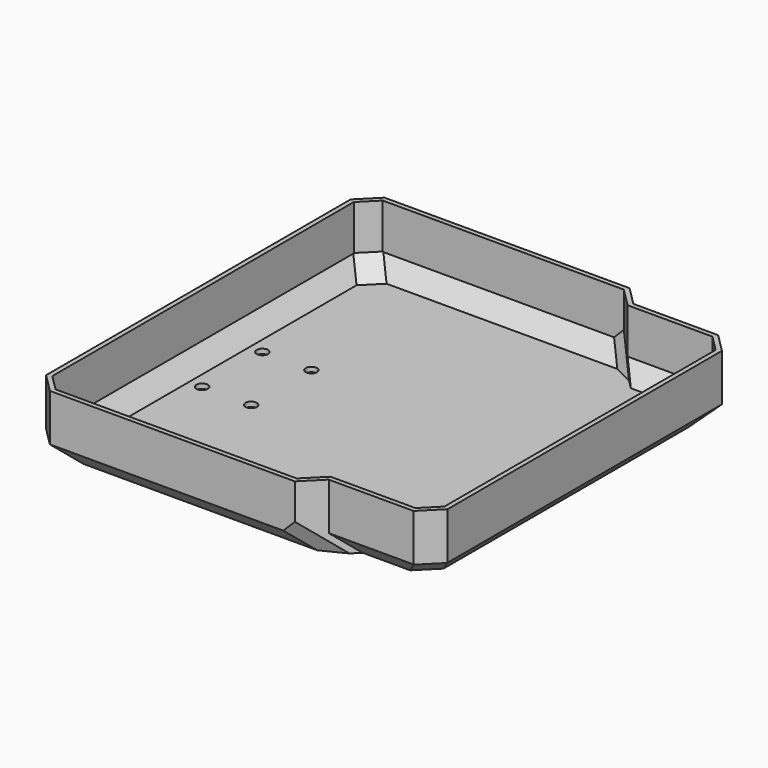
from build123d import *

# Parameters (mm, degrees)
F1_DEPTH  = 222
F2_SIZE   = 10
F3_SIZE   = 10
F4_SIZE   = 8
F6_W      = 202
F6_H      = 35
F7_DEPTH  = 55
F8_SIZE   = 10
F9_SIZE   = 10
F10_SIZE  = 5
F11_SIZE  = 8
F12_T     = -2.5
F5_R      = 3
F13_DEPTH = 35.001


with BuildPart() as f1:
    # F0 (on Front) → F1 (new body)
    with BuildSketch(Plane.XZ):
        Polygon((0, 0), (10, 0), (140, 0), (150, 0), (150, 10), (150, 35), (0, 35), (0, 10), align=None)
    extrude(amount=F1_DEPTH)

    # F2
    f2_edges = [f1.edges().sort_by_distance(p)[0] for p in [
        (0, -222, 17.5),
        (150, -222, 17.5),
        (150, 0, 17.5),
        (0, 0, 17.5),
    ]]
    chamfer(f2_edges, length=F2_SIZE)

    # F3 (call 1 of 3: OpenCascade refuses the feature's edges together)
    f3_edges = [f1.edges().sort_by_distance(p)[0] for p in [
        (75, -222, 0),
    ]]
    chamfer(f3_edges, length=F3_SIZE)

    # F3#2 (call 2 of 3)
    f3_2_edges = [f1.edges().sort_by_distance(p)[0] for p in [
        (75, 0, 0),
    ]]
    chamfer(f3_2_edges, length=F3_SIZE)

    # F3#3 (call 3 of 3)
    f3_3_edges = [f1.edges().sort_by_distance(p)[0] for p in [
        (0, -111, 0),
    ]]
    chamfer(f3_3_edges, length=F3_SIZE)

    # F4
    f4_edges = [f1.edges().sort_by_distance(p)[0] for p in [
        (7.5, -214.5, 2.5),
        (7.5, -7.5, 2.5),
    ]]
    chamfer(f4_edges, length=F4_SIZE)

    # F6 (on face) → F7 (join)
    with BuildSketch(Plane.YZ.offset(150)):
        with Locations((-111, 17.5)):
            Rectangle(F6_W, F6_H)
    extrude(amount=F7_DEPTH)

    # F8
    f8_edges = [f1.edges().sort_by_distance(p)[0] for p in [
        (205, -111, 0),
        (177.5, -212, 0),
        (177.5, -10, 0),
    ]]
    chamfer(f8_edges, length=F8_SIZE)

    # F9
    f9_edges = [f1.edges().sort_by_distance(p)[0] for p in [
        (205, -212, 22.5),
        (205, -10, 22.5),
    ]]
    chamfer(f9_edges, length=F9_SIZE)

    # F10
    f10_edges = [f1.edges().sort_by_distance(p)[0] for p in [
        (145, -217, 5),
        (145, -5, 5),
    ]]
    chamfer(f10_edges, length=F10_SIZE)

    # F11
    f11_edges = [f1.edges().sort_by_distance(p)[0] for p in [
        (197.5, -17.5, 2.5),
        (197.5, -204.5, 2.5),
    ]]
    chamfer(f11_edges, length=F11_SIZE)

    # F12
    f12_openings = [f1.faces().sort_by_distance(p)[0] for p in [
        (100.529547, -111, 35),
    ]]
    offset(amount=F12_T, openings=f12_openings, kind=Kind.INTERSECTION)

    # F5 (on face) → F13 (cut, through all)
    with BuildSketch(Plane(origin=(0, 0, 0), x_dir=(1, 0, 0), z_dir=(0, 0, -1))):
        with Locations((18, 131)):
            Circle(F5_R)
        with Locations((44, 131)):
            Circle(F5_R)
        with Locations((44, 91)):
            Circle(F5_R)
        with Locations((18, 91)):
            Circle(F5_R)
    extrude(amount=-F13_DEPTH, mode=Mode.SUBTRACT)


solid = f1.part
